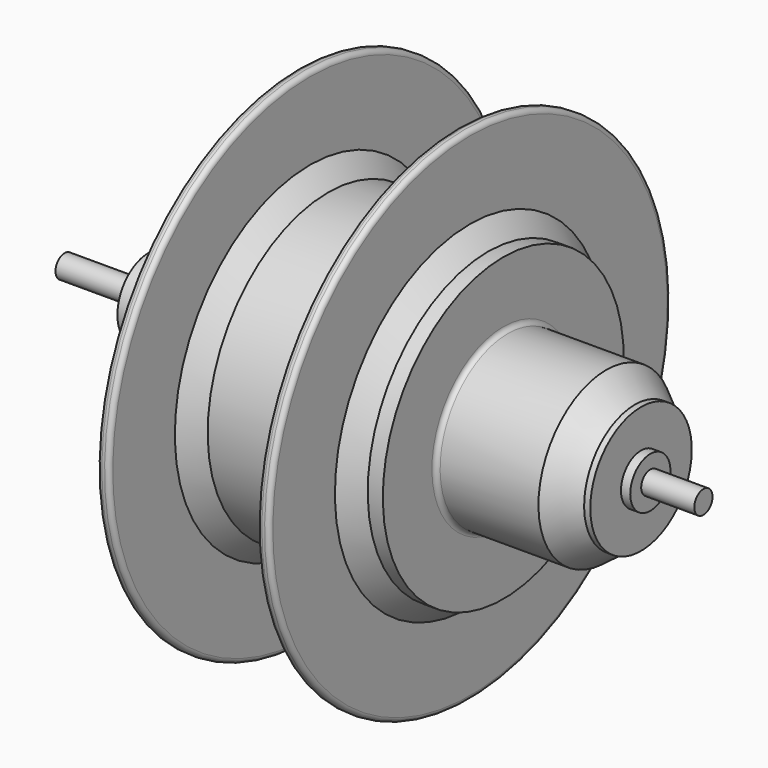
from build123d import *

# Parameters (mm, degrees)
F0_R     = 3.175
F1_DEPTH = 88.9
F4_SIZE  = 5.08
F5_R     = 1.27


with BuildPart() as f1:
    # F0 (on Right) → F1 (new body, symmetric)
    with BuildSketch(Plane.YZ):
        Circle(F0_R)
    extrude(amount=F1_DEPTH, both=True)

    # F2 (on Front) → F3 (revolve)
    with BuildSketch(Plane.XZ):
        Polygon((-65.57218, 10.78928), (-65.57218, 3.175), (74.12782, 3.175), (74.12782, 6.985), (71.545292, 6.985), (71.545292, 17.653), (69.826719, 17.653), (61.84139, 23.561833), (33.204339, 23.561833), (33.204339, 41.91), (23.922834, 41.91), (23.922834, 69.85), (20.620834, 69.85), (20.620834, 41.91), (-20.620834, 41.91), (-20.620834, 69.85), (-23.922834, 69.85), (-23.922834, 41.91), (-33.204339, 41.91), (-33.204339, 20.32), (-36.41678, 20.32), (-37.499323, 19.685), (-43.025538, 19.685), (-43.025538, 10.78928), align=None)
    revolve(axis=Axis((54.406915, 0, 0), (1, 0, 0)))

    # F4
    f4_edges = [f1.edges().sort_by_distance(p)[0] for p in [
        (-20.620834, 0, -41.91),
        (23.922834, 0, -41.91),
        (20.620834, 0, -41.91),
        (-23.922834, 0, -41.91),
    ]]
    chamfer(f4_edges, length=F4_SIZE)

    # F5
    f5_edges = [f1.edges().sort_by_distance(p)[0] for p in [
        (33.204339, 0, -23.561833),
        (-43.025538, 0, -10.78928),
        (-65.57218, -3.175, 0),
        (-23.922834, 0, -69.85),
        (-20.620834, 0, -69.85),
        (20.620834, 0, -69.85),
        (23.922834, 0, -69.85),
    ]]
    fillet(f5_edges, radius=F5_R)


solid = f1.part
